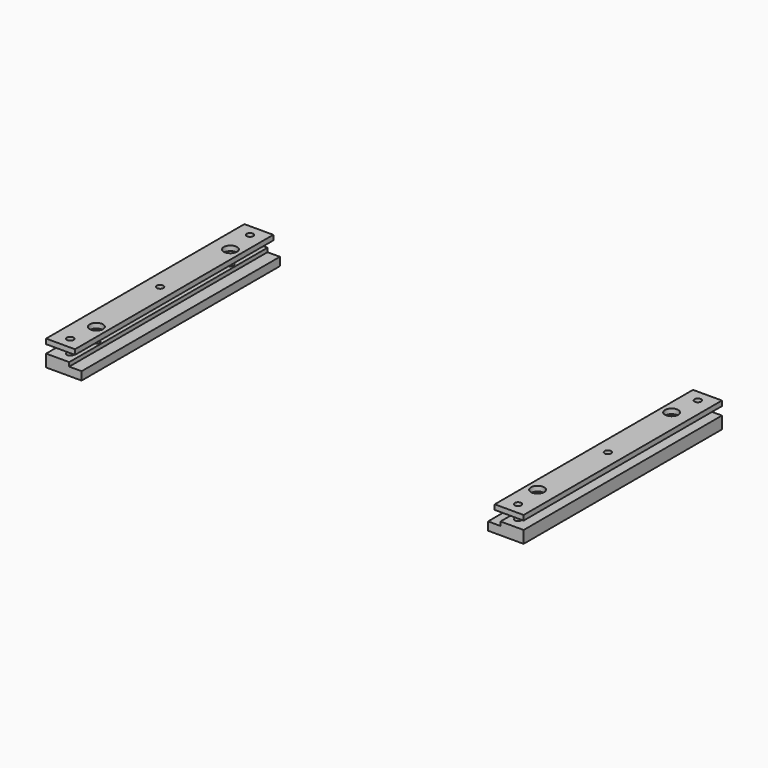
from build123d import *

# Parameters (mm, degrees)
F0_W     = 17.5
F0_H     = 3
F1_DEPTH = 75
F2_R     = 2
F3_DEPTH = 15.401
F2_R_2   = 4
F4_DEPTH = 3


with BuildPart() as f1:
    # F0 (on Front) → F1 (new body, symmetric)
    with BuildSketch(Plane.XZ):
        with Locations((-135.75, 10.2)):
            Rectangle(F0_W, F0_H)
        Polygon((-130.5, 1.3), (-130.5, 3.7), (-144.5, 3.7), (-144.5, -3.7), (-123, -3.7), (-123, 1.3), align=None)
    extrude(amount=F1_DEPTH, both=True)

    # F2 (on face) → F3 (cut, through all)
    with BuildSketch(Plane.XY.offset(11.7)):
        with Locations((-135.5, 68)):
            Circle(F2_R)
        with Locations((-133.5, 50.7)):
            Circle(F2_R)
        with Locations((-135.5, 0)):
            Circle(F2_R)
        with Locations((-133.5, -50.7)):
            Circle(F2_R)
        with Locations((-135.5, -68)):
            Circle(F2_R)
    extrude(amount=-F3_DEPTH, mode=Mode.SUBTRACT)

    # F2 (on face) → F4 (cut, through all)
    with BuildSketch(Plane.XY.offset(11.7)):
        with Locations((-133.5, 50.7)):
            Circle(F2_R_2)
        with Locations((-133.5, 50.7)):
            Circle(F2_R, mode=Mode.SUBTRACT)
        with Locations((-133.5, -50.7)):
            Circle(F2_R_2)
        with Locations((-133.5, -50.7)):
            Circle(F2_R, mode=Mode.SUBTRACT)
    extrude(amount=-F4_DEPTH, mode=Mode.SUBTRACT)


with BuildPart() as f5_1:
    # F5: instance of F1
    add(f1.part.mirror(Plane.YZ))


solid = Compound([f1.part, f5_1.part])
